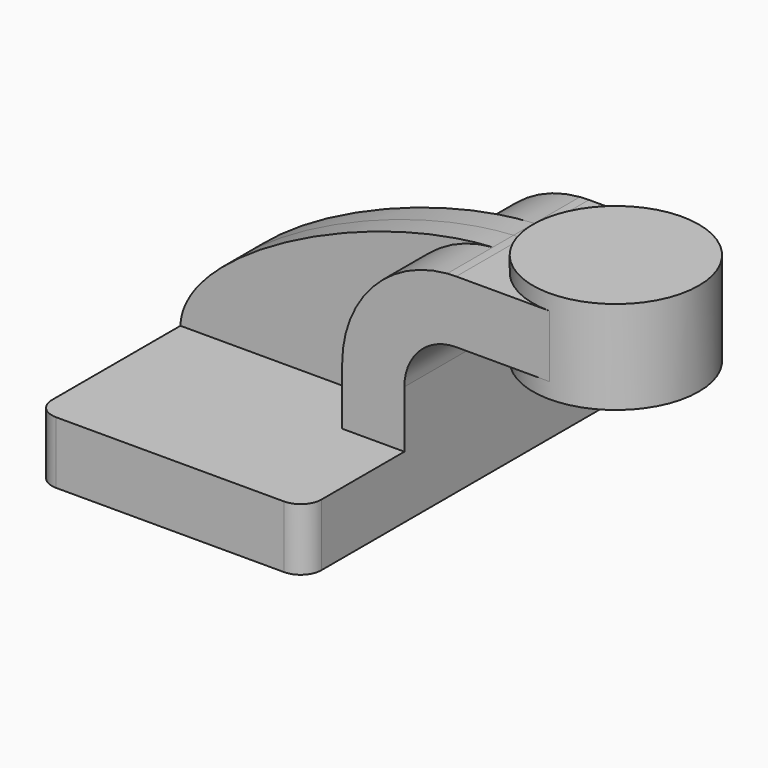
from build123d import *

# Parameters (mm, degrees)
F1_DEPTH = 63.5
F2_DEPTH = 25.4
F3_DEPTH = 7.9375
F5_R     = 6.35


with BuildPart() as f1:
    # F0 (on Front) → F1 (new body, symmetric)
    with BuildSketch(Plane.XZ):
        Polygon((22.225, 9.525), (-41.275, 9.525), (-41.275, -9.525), (41.275, -9.525), (41.275, 9.525), align=None)
    extrude(amount=F1_DEPTH, both=True)

    # F0 (on Front) → F2 (join, symmetric)
    with BuildSketch(Plane.XZ):
        with BuildLine():
            Line((22.225, 27.0002), (22.225, 9.525))
            Line((22.225, 9.525), (41.275, 9.525))
            Line((41.275, 9.525), (41.275, 27.0002))
            ThreePointArc((41.275, 27.0002), (45.9246798487, 38.2255201513), (57.15, 42.8752))
            Line((57.15, 42.8752), (60.325, 42.8752))
            Line((60.325, 42.8752), (60.325, 61.9252))
            Line((60.325, 61.9252), (57.15, 61.9252))
            add(Edge.make_bspline(
                [(54.3975584456, 61.8165710126), (55.3245975256, 61.8674152236), (56.2423933206, 61.9037658761), (57.15, 61.9252)],
                knots=[108.931400428, 108.931400428, 108.931400428, 108.931400428, 111.5045361635, 111.5045361635, 111.5045361635, 111.5045361635], degree=3))
            ThreePointArc((54.3975584456, 61.8165710126), (31.4996135869, 50.7028011623), (22.225, 27.0002))
        make_face()
        Polygon((85.725, 61.9252), (60.325, 61.9252), (60.325, 42.8752), (85.725, 42.8752), (85.725, 52.3875), align=None)
    extrude(amount=F2_DEPTH, both=True)

    # F0 (on Front) → F3 (join, symmetric)
    with BuildSketch(Plane.XZ):
        with BuildLine():
            add(Edge.make_bspline(
                [(-41.275, 9.525), (-40.658780826, 31.5366673239), (15.1521879644, 59.6641268054), (54.3975584456, 61.8165710126)],
                knots=[0, 0, 0, 0, 108.931400428, 108.931400428, 108.931400428, 108.931400428], degree=3))
            Line((-41.275, 9.525), (22.225, 9.525))
            Line((22.225, 9.525), (22.225, 27.0002))
            ThreePointArc((22.225, 27.0002), (31.4996135869, 50.7028011623), (54.3975584456, 61.8165710126))
        make_face()
    extrude(amount=F3_DEPTH, both=True)

    # F0 (on Front) → F4 (revolve)
    with BuildSketch(Plane.XZ):
        Polygon((85.725, 66.675), (85.725, 61.9252), (85.725, 52.3875), (85.725, 42.8752), (85.725, 38.1), (111.125, 38.1), (111.125, 66.675), align=None)
    revolve(axis=Axis((85.725, 0, 45.24375), (0, 0, -1)))

    # F5
    f5_edges = [f1.edges().sort_by_distance(p)[0] for p in [
        (-41.275, -63.5, 0),
        (41.275, -63.5, 0),
        (41.275, 63.5, 0),
        (-41.275, 63.5, 0),
    ]]
    fillet(f5_edges, radius=F5_R)


solid = f1.part
